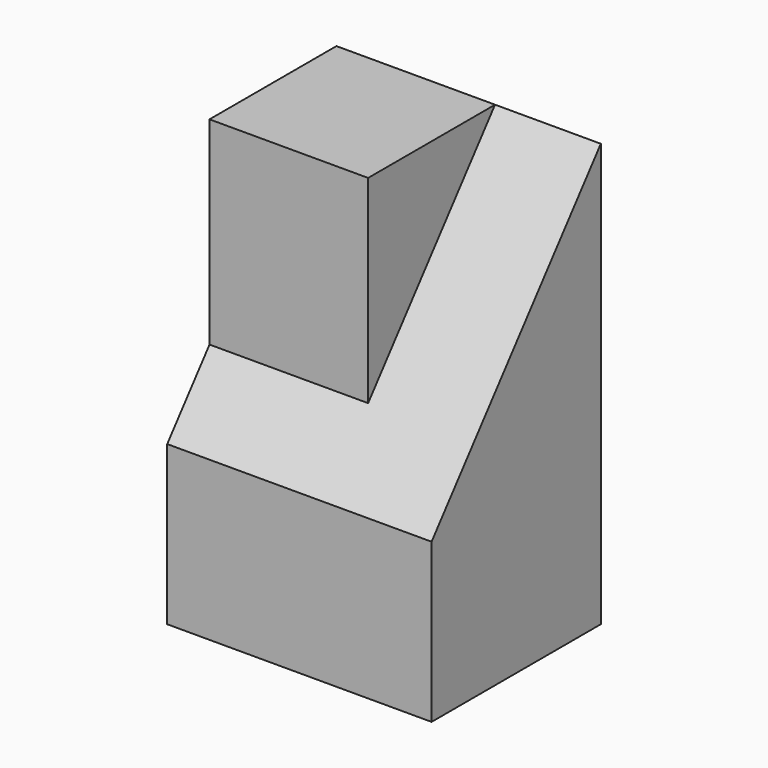
from build123d import *

# Parameters (mm, degrees)
F0_W     = 31.75
F0_H     = 50.8
F1_DEPTH = 25.4
F4_DEPTH = 31.751
F2_W     = 19.05
F2_H     = 19.05
F5_DEPTH = 50.546


with BuildPart() as f1:
    # F0 (on Front) → F1 (new body)
    with BuildSketch(Plane.XZ):
        with Locations((-37.953461, 60.855525)):
            Rectangle(F0_W, F0_H)
    extrude(amount=F1_DEPTH)

    # F3 (on face) → F4 (cut, through all)
    with BuildSketch(Plane.YZ.offset(-22.078461)):
        Polygon((-25.4, 54.505525), (0, 86.255525), (-25.4, 86.255525), align=None)
    extrude(amount=-F4_DEPTH, mode=Mode.SUBTRACT)

    # F2 (on face) → F5 (join)
    with BuildSketch(Plane.XY.offset(86.255525)):
        with Locations((-44.303461, -9.525)):
            Rectangle(F2_W, F2_H)
    extrude(amount=-F5_DEPTH)


solid = f1.part
